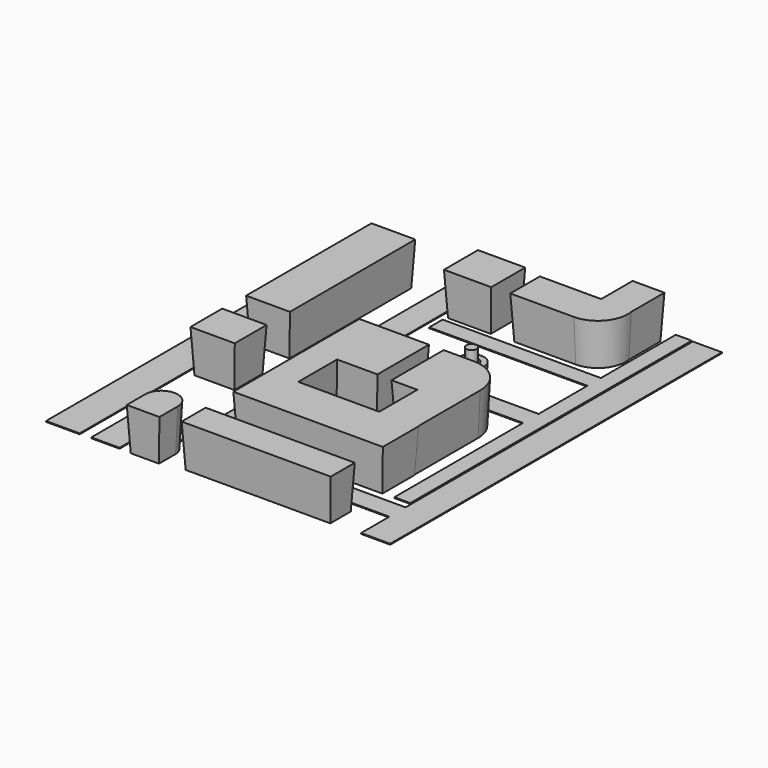
from build123d import *

# Parameters (mm, degrees)
F0_W     = 25.4052998498
F0_H     = 22.5795097649
F1_DEPTH = 25.4
F1_TAPER = -3
F0_W_2   = 16.2246452776
F0_H_2   = 23.3158059418
F0_W_3   = 36.446288228
F0_H_3   = 19.2662030458
F0_W_4   = 23.3518372697
F0_H_4   = 90.399030596
F0_W_5   = 19.8797881603
F0_H_5   = 16.4437703788
F0_W_6   = 85.900310427
F0_H_6   = 15.1923596859
F0_W_7   = 16.728913189
F0_H_7   = 12.2842788696
F0_W_8   = 23.6697942019
F0_H_8   = 20.9412574768
F2_W     = 15.8104561269
F2_H     = 206.8802822016
F2_W_2   = 16.7676582932
F2_H_2   = 24.1035223007
F3_DEPTH = 0.508
F2_W_3   = 19.9504420161
F2_H_3   = 241.3269877434
F4_R     = 7.5261335965
F4_R_2   = 4.1613128117
F6_DEPTH = 2.54
F5_R     = 3.0696818441
F7_DEPTH = 10.16
F8_W     = 93.9673818648
F8_H     = 9.9741909653
F8_W_2   = 5.2495710552
F8_W_3   = 94.4923385978
F8_H_2   = 11.5490630269
F9_DEPTH = 0.508


with BuildPart() as f1:
    # F0 (on Top) → F1 (new body)
    with BuildSketch(Plane.XY):
        with Locations((-26.2046209536, 42.4592960626)):
            Rectangle(F0_W, F0_H)
    extrude(amount=F1_DEPTH, taper=F1_TAPER)


with BuildPart() as f1b:
    # F0 (on Top) → F1, piece 2 (new body)
    with BuildSketch(Plane.XY):
        with Locations((44.5586108668, 62.7072211355)):
            Rectangle(F0_W_2, F0_H_2)
        with Locations((18.223144114, 41.4162166417)):
            Rectangle(F0_W_3, F0_H_3)
        with BuildLine():
            Line((52.6709335056, 51.0493181646), (36.446288228, 51.0493181646))
            Line((36.446288228, 51.0493181646), (36.446288228, 31.7831151187))
            ThreePointArc((36.446288228, 31.7831151187), (49.0401924498, 37.6421428767), (52.6709335056, 51.0493181646))
        make_face()
    extrude(amount=F1_DEPTH, taper=F1_TAPER)


with BuildPart() as f1c:
    # F0 (on Top) → F1, piece 3 (new body)
    with BuildSketch(Plane.XY):
        with Locations((-82.6284939685, -1.2676436454)):
            Rectangle(F0_W_4, F0_H_4)
    extrude(amount=F1_DEPTH, taper=F1_TAPER)


with BuildPart() as f1d:
    # F0 (on Top) → F1, piece 4 (new body)
    with BuildSketch(Plane.XY):
        Polygon((0, -34.605551511), (-38.6551395059, -34.605551511), (-38.6551395059, -70.1928213239), (-23.9862054586, -70.1928213239), (0, -70.1928213239), align=None)
        Polygon((-23.9862054586, -70.1928213239), (-38.6551395059, -70.1928213239), (-38.6551395059, -125.5229115486), (-23.9862054586, -125.5229115486), (-23.9862054586, -101.6486436129), align=None)
        Polygon((26.7531871796, -101.6486436129), (-23.9862054586, -101.6486436129), (-23.9862054586, -125.5229115486), (47.4710874259, -125.5229115486), (47.4710874259, -101.6486436129), (47.2451709211, -101.6486436129), align=None)
        Polygon((26.7531871796, -70.6836804748), (26.7531871796, -101.6486436129), (47.2451709211, -101.6486436129), (47.2451709211, -70.6836804748), (27.3653827608, -70.6836804748), align=None)
        Polygon((11.4124696702, -70.6836804748), (26.7531871796, -70.6836804748), (27.3653827608, -70.6836804748), (27.3653827608, -54.2399100959), (27.3653827608, -34.605551511), (11.4124696702, -34.605551511), align=None)
        with Locations((37.3052768409, -62.4617952853)):
            Rectangle(F0_W_5, F0_H_5)
        with BuildLine():
            Line((27.3653827608, -54.2399100959), (47.2451709211, -54.2399100959))
            ThreePointArc((47.2451709211, -54.2399100959), (41.407450395, -40.2692800606), (27.3653827608, -34.605551511))
            Line((27.3653827608, -34.605551511), (27.3653827608, -54.2399100959))
        make_face()
    extrude(amount=F1_DEPTH, taper=F1_TAPER)


with BuildPart() as f1e:
    # F0 (on Top) → F1, piece 5 (new body)
    with BuildSketch(Plane.XY):
        with Locations((4.2950157076, -156.3271731138)):
            Rectangle(F0_W_6, F0_H_6)
    extrude(amount=F1_DEPTH, taper=F1_TAPER)


with BuildPart() as f1f:
    # F0 (on Top) → F1, piece 6 (new body)
    with BuildSketch(Plane.XY):
        with Locations((-60.5950392783, -160.6239974499)):
            Rectangle(F0_W_7, F0_H_7)
        with BuildLine():
            Line((-68.9594958728, -154.4818580151), (-52.2305826838, -154.4818580151))
            ThreePointArc((-52.2305826838, -154.4818580151), (-60.5950392783, -146.1174014206), (-68.9594958728, -154.4818580151))
        make_face()
    extrude(amount=F1_DEPTH, taper=F1_TAPER)


with BuildPart() as f1g:
    # F0 (on Top) → F1, piece 7 (new body)
    with BuildSketch(Plane.XY):
        with Locations((-82.983635366, -76.6883715987)):
            Rectangle(F0_W_8, F0_H_8)
    extrude(amount=F1_DEPTH, taper=F1_TAPER)


with BuildPart() as f3:
    # F2 (on Top) → F3 (new body)
    with BuildSketch(Plane.XY):
        Polygon((65.0635436177, -130.3054723524), (-42.7875295281, -130.3054723524), (-58.5979856551, -130.3054723524), (-58.5979856551, -142.3572450876), (65.0635436177, -142.3572450876), align=None)
        with Locations((-50.6927575916, -26.8653312515)):
            Rectangle(F2_W, F2_H)
        Polygon((-58.5979856551, -142.3572450876), (-58.5979856551, -130.3054723524), (-92.6573053002, -130.3054723524), (-92.6573053002, -142.3572450876), (-75.889647007, -142.3572450876), align=None)
        Polygon((65.0635436177, 82.9582512379), (65.0635436177, -130.3054723524), (65.0635436177, -142.3572450876), (65.0635436177, -163.3168160915), (82.3552012444, -163.3168160915), (82.3552012444, 82.9582512379), align=None)
        with Locations((-84.2734761536, -154.409006238)):
            Rectangle(F2_W_2, F2_H_2)
    extrude(amount=F3_DEPTH)


with BuildPart() as f3b:
    # F2 (on Top) → F3, piece 2 (new body)
    with BuildSketch(Plane.XY):
        with Locations((-109.3545146286, -46.0334867239)):
            Rectangle(F2_W_3, F2_H_3)
    extrude(amount=F3_DEPTH)


with BuildPart() as f6:
    # F4 (on Top) → F6 (new body)
    with BuildSketch(Plane.XY):
        Circle(F4_R)
        Circle(F4_R_2, mode=Mode.SUBTRACT)
    extrude(amount=F6_DEPTH)


with BuildPart() as f7:
    # F5 (on Top) → F7 (new body)
    with BuildSketch(Plane.XY):
        Circle(F5_R)
    extrude(amount=F7_DEPTH)


with BuildPart() as f9:
    # F8 (on Top) → F9 (new body)
    with BuildSketch(Plane.XY):
        with Locations((7.675556466, 22.7122409269)):
            Rectangle(F8_W, F8_H)
        Polygon((54.6592473984, 83.3448246121), (54.6592473984, 27.6993364096), (59.9088184536, 27.6993364096), (59.9088184536, 17.7251454443), (54.6592473984, 17.7251454443), (54.6592473984, -18.4969175607), (59.9088184536, -18.4969175607), (59.9088184536, -30.0459805876), (54.6592473984, -30.0459805876), (54.6592473984, -125.5882382393), (64.1084834933, -125.5882382393), (64.1084834933, 83.3448246121), align=None)
        with Locations((57.284032926, 22.7122409269)):
            Rectangle(F8_W_2, F8_H)
        with Locations((7.4130780995, -24.2714490741)):
            Rectangle(F8_W_3, F8_H_2)
        with Locations((57.284032926, -24.2714490741)):
            Rectangle(F8_W_2, F8_H_2)
    extrude(amount=F9_DEPTH)


solid = Compound([f1.part, f1b.part, f1c.part, f1d.part, f1e.part, f1f.part, f1g.part, f3.part, f3b.part, f6.part, f7.part, f9.part])
